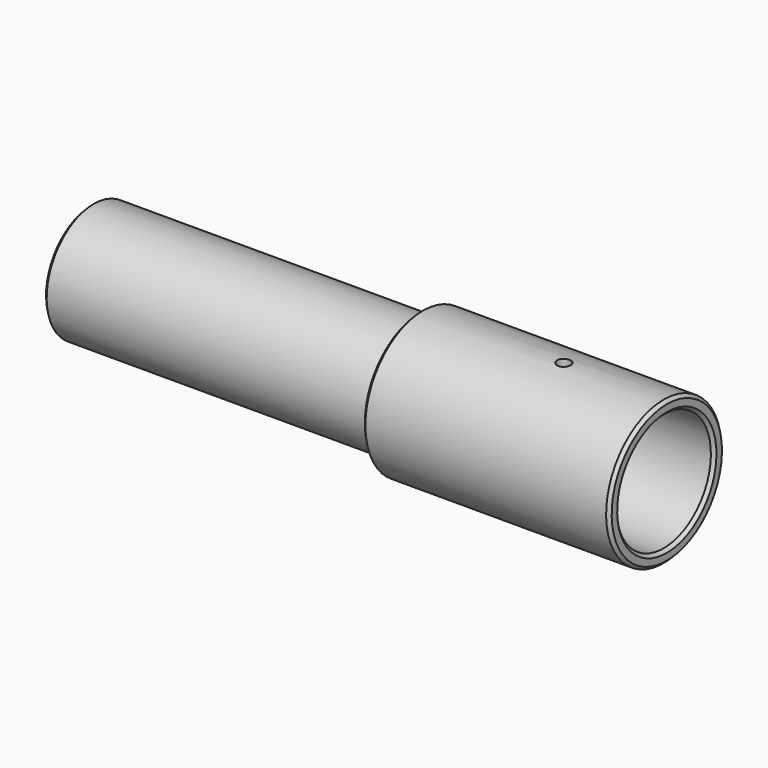
from build123d import *

# Parameters (mm, degrees)
F4_D     = 3.3
F4_DEPTH = 8.1
F4_START = 0.0779595
F4_TIP   = 0.9914200214
F5_SIZE  = 0.75


with BuildPart() as f1:
    # F0 (on Front) → F1 (revolve)
    with BuildSketch(Plane.XZ):
        Polygon((0, 14.325), (0, 17.5), (-60, 17.5), (-60, 14.325), (-140, 14.325), (-140, 12), (-56, 12), (-56, 14.325), align=None)
    revolve(axis=Axis((-73.5066011898, 0, 0), (-1, 0, 0)))

    # F4
    # its depths count from where the whole tool has entered the part; down to there all is cleared
    with Locations(Plane.XY.offset(17.5).offset(-F4_START)):
        with Locations((-25, 0)):
            Hole(F4_D / 2, depth=F4_DEPTH)
            with Locations((0, 0, -(F4_DEPTH + F4_TIP / 2))):  # 118° drill point
                Cone(0, F4_D / 2, F4_TIP, mode=Mode.SUBTRACT)

    # F5
    f5_edges = [f1.edges().sort_by_distance(p)[0] for p in [
        (-140, 0, -14.325),
        (-140, 0, -12),
        (-60, 0, -17.5),
        (0, 0, -17.5),
        (0, 0, -14.325),
        (-56, 0, -12),
    ]]
    chamfer(f5_edges, length=F5_SIZE)


solid = f1.part
